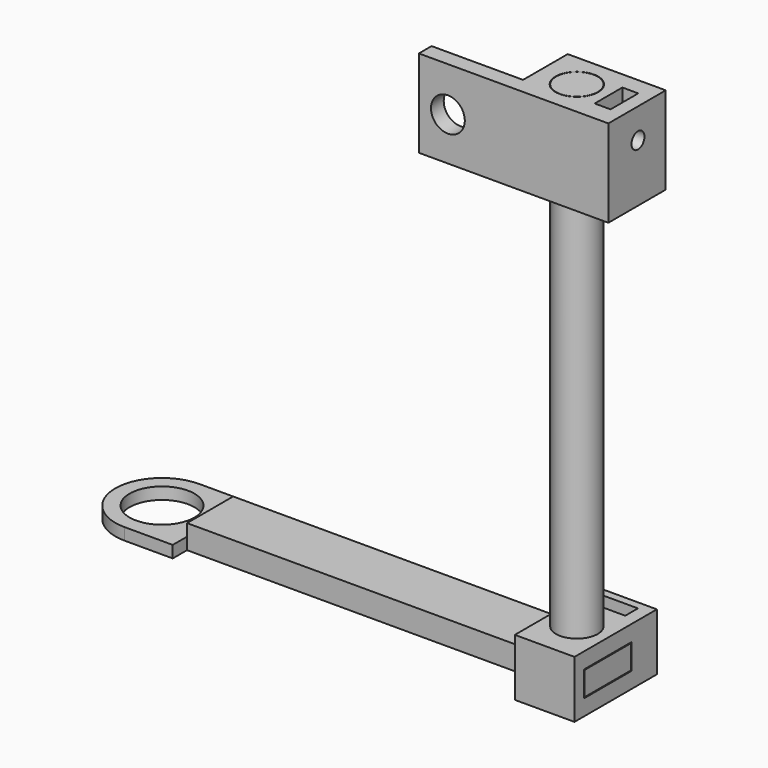
from build123d import *

# Parameters (mm, degrees)
F0_R      = 8.15
F1_DEPTH  = 3
F2_W      = 100
F2_H      = 14.5
F3_DEPTH  = 6
F4_W      = 25.9
F4_H      = 14.4
F4_W_2    = 14.9
F4_H_2    = 6.4
F5_DEPTH  = 15
F7_DEPTH  = 4
F10_R     = 2
F11_DEPTH = 8
F12_R     = 5.25
F13_DEPTH = 120
F14_W     = 24.6563926339
F14_H     = 18.0372335017
F14_R     = 5.35
F15_DEPTH = 22
F17_DEPTH = 4
F20_W     = 4
F20_H     = 22
F21_DEPTH = 23
F22_R     = 4.25
F23_DEPTH = 6.9
F24_R     = 2.0388444007
F25_DEPTH = 8


with BuildPart() as f1:
    # F0 (on Top) → F1 (new body)
    with BuildSketch(Plane.XY):
        with BuildLine():
            Line((12.0938429609, 11.75), (0, 11.75))
            ThreePointArc((0, 11.75), (-11.75, 0), (0, -11.75))
            Line((0, -11.75), (12.0938429609, -11.75))
            Line((12.0938429609, -11.75), (12.0938429609, 11.75))
        make_face()
        Circle(F0_R, mode=Mode.SUBTRACT)
    extrude(amount=F1_DEPTH)

    # F2 (on Top) → F3 (join)
    with BuildSketch(Plane.XY):
        with Locations((62.0938429609, 0)):
            Rectangle(F2_W, F2_H)
    extrude(amount=F3_DEPTH)


with BuildPart() as f5:
    # F4 (on face) → F5 (new body)
    with BuildSketch(Plane.YZ.offset(112.0938429609)):
        with Locations((2.5, 3)):
            Rectangle(F4_W, F4_H)
        with Locations((0, 3)):
            Rectangle(F4_W_2, F4_H_2, mode=Mode.SUBTRACT)
    extrude(amount=-F5_DEPTH)


with BuildPart() as f7:
    # F6 (on face) → F7 (new body)
    with BuildSketch(Plane(origin=(0, 15.45, 0), x_dir=(-1, 0, 0), z_dir=(0, 1, 0))):
        Polygon((-104.5203484448, -1.759813661), (-100.1944865702, 0.7930120365), (-100.2423675383, 5.8157311619), (-100.2277748773, 10.2), (-108.9419722557, 10.2), (-108.9419722557, 5.7327988924), (-108.8940912876, 0.710079767), align=None)
    extrude(amount=-F7_DEPTH)


with BuildPart() as f7_1:
    # F8: moved
    add(f7.part.moved(Location((0, -2, 0))))


with BuildPart() as f5_1:
    add(f5.part)

    # F9: cut F7
    add(f7_1.part, mode=Mode.SUBTRACT)

    # F10 (on face) → F11 (cut)
    with BuildSketch(Plane(origin=(0, 15.45, 0), x_dir=(-1, 0, 0), z_dir=(0, 1, 0))):
        with Locations((-104.5355323519, 3.2905018547)):
            Circle(F10_R)
    extrude(amount=-F11_DEPTH, mode=Mode.SUBTRACT)

    # F12 (on face) → F13 (join)
    with BuildSketch(Plane.XY.offset(10.2)):
        with Locations((104.3347269297, 0)):
            Circle(F12_R)
    extrude(amount=F13_DEPTH)


with BuildPart() as f15:
    # F14 (on face) → F15 (new body)
    with BuildSketch(Plane.XY.offset(130.2)):
        with Locations((107.2306148708, -0.1103188843)):
            Rectangle(F14_W, F14_H)
        with Locations((104.3347269297, 0)):
            Circle(F14_R, mode=Mode.SUBTRACT)
    extrude(amount=-F15_DEPTH)


with BuildPart() as f17:
    # F16 (on face) → F17 (new body)
    with BuildSketch(Plane.YZ.offset(119.5588111877)):
        Polygon((0.228611862, 118.2558574952), (4.5544737366, 120.8086831927), (4.5065927685, 125.8314023181), (4.5211332695, 130.2), (-4.1930119489, 130.2), (-4.1930119489, 125.7484700486), (-4.1451309808, 120.7257509232), align=None)
    extrude(amount=-F17_DEPTH)


with BuildPart() as f17_1:
    # F18: moved
    add(f17.part.moved(Location((-3.4, 0, 0))))


with BuildPart() as f15_1:
    add(f15.part)

    # F19: cut F17
    add(f17_1.part, mode=Mode.SUBTRACT)

    # F20 (on face) → F21 (join)
    with BuildSketch(Plane(origin=(94.9024185538, 0, 0), x_dir=(0, -1, 0), z_dir=(-1, 0, 0))):
        with Locations((7.1289356351, 119.2)):
            Rectangle(F20_W, F20_H)
    extrude(amount=F21_DEPTH)

    # F22 (on face) → F23 (cut)
    with BuildSketch(Plane(origin=(0, -5.1289356351, 0), x_dir=(-1, 0, 0), z_dir=(0, 1, 0))):
        with Locations((-79.2009755969, 119.0599501133)):
            Circle(F22_R)
    extrude(amount=-F23_DEPTH, mode=Mode.SUBTRACT)

    # F24 (on face) → F25 (cut, symmetric)
    with BuildSketch(Plane(origin=(116.1588111877, 0, 0), x_dir=(0, -1, 0), z_dir=(-1, 0, 0))):
        with Locations((-0.1807307642, 122.6737608395)):
            Circle(F24_R)
    extrude(amount=F25_DEPTH, both=True, mode=Mode.SUBTRACT)


solid = Compound([f1.part, f5_1.part, f15_1.part])
